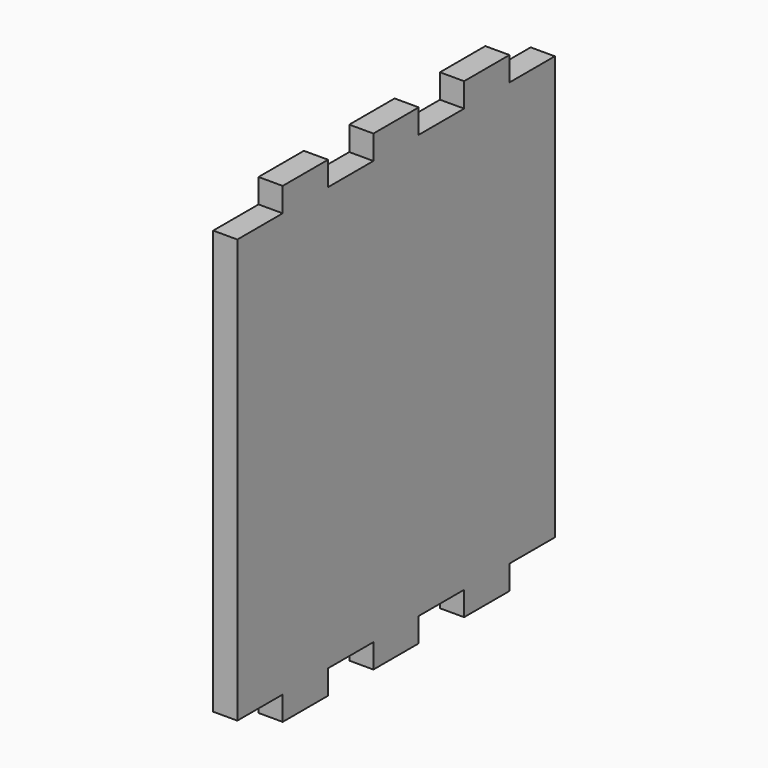
from build123d import *

# Parameters (mm, degrees)
F1_DEPTH = 6.1849


with BuildPart() as f1:
    # F0 (on Right) → F1 (new body)
    with BuildSketch(Plane.YZ):
        Polygon((50.8, -54.22265), (50.8, 54.22265), (36.28644, 54.22265), (36.28644, 60.40755), (21.77288, 60.40755), (21.77288, 54.22265), (7.25424, 54.22265), (7.25424, 60.40755), (-7.25424, 60.40755), (-7.25424, 54.22265), (-21.77288, 54.22265), (-21.77288, 60.40755), (-36.28644, 60.40755), (-36.28644, 54.22265), (-50.8, 54.22265), (-50.8, -54.22265), (-36.28644, -54.22265), (-36.28644, -60.40755), (-21.77288, -60.40755), (-21.77288, -54.22265), (-7.25424, -54.22265), (-7.25424, -60.40755), (7.25424, -60.40755), (7.25424, -54.22265), (21.77288, -54.22265), (21.77288, -60.40755), (36.28644, -60.40755), (36.28644, -54.22265), align=None)
    extrude(amount=F1_DEPTH)


solid = f1.part
